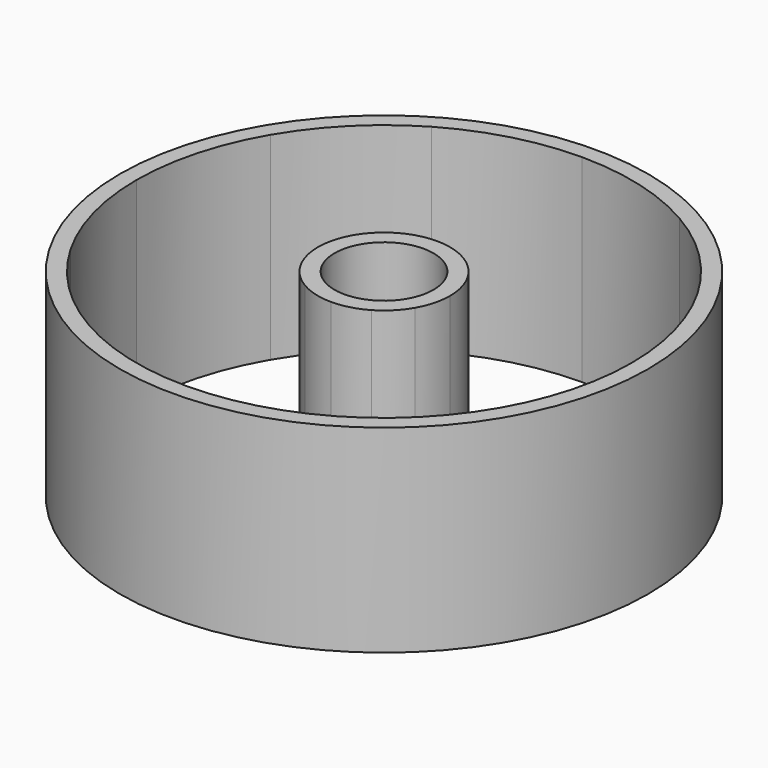
from build123d import *

# Parameters (mm, degrees)
F0_R     = 3
F1_DEPTH = 12
F0_R_2   = 16


with BuildPart() as f1:
    # F0 (on Top) → F1 (new body)
    with BuildSketch(Plane.XY):
        with BuildLine():
            ThreePointArc((-2, -3.4641016151), (-1.0352761804, -3.8637033052), (0, -4))
            ThreePointArc((0, -4), (1.0352761804, -3.8637033052), (2, -3.4641016151))
            ThreePointArc((2, -3.4641016151), (2.8284271247, -2.8284271247), (3.4641016151, -2))
            ThreePointArc((3.4641016151, -2), (3.8637033052, -1.0352761804), (4, 0))
            ThreePointArc((4, 0), (3.8637033052, 1.0352761804), (3.4641016151, 2))
            ThreePointArc((3.4641016151, 2), (2.8284271247, 2.8284271247), (2, 3.4641016151))
            ThreePointArc((2, 3.4641016151), (1.0352761804, 3.8637033052), (0, 4))
            ThreePointArc((0, 4), (-1.0352761804, 3.8637033052), (-2, 3.4641016151))
            ThreePointArc((-2, 3.4641016151), (-2.8284271247, 2.8284271247), (-3.4641016151, 2))
            ThreePointArc((-3.4641016151, 2), (-3.8637033052, 1.0352761804), (-4, 0))
            ThreePointArc((-4, 0), (-3.8637033052, -1.0352761804), (-3.4641016151, -2))
            ThreePointArc((-3.4641016151, -2), (-2.8284271247, -2.8284271247), (-2, -3.4641016151))
        make_face()
        Circle(F0_R, mode=Mode.SUBTRACT)
    extrude(amount=-F1_DEPTH)


with BuildPart() as f1b:
    # F0 (on Top) → F1, piece 2 (new body)
    with BuildSketch(Plane.XY):
        Circle(F0_R_2)
        with BuildLine():
            ThreePointArc((12.9903810568, 7.5), (14.4888873943, 3.8822856765), (15, 0))
            ThreePointArc((15, 0), (14.4888873943, -3.8822856765), (12.9903810568, -7.5))
            ThreePointArc((12.9903810568, -7.5), (10.6066017178, -10.6066017178), (7.5, -12.9903810568))
            ThreePointArc((7.5, -12.9903810568), (3.8822856765, -14.4888873943), (0, -15))
            ThreePointArc((0, -15), (-3.8822856765, -14.4888873943), (-7.5, -12.9903810568))
            ThreePointArc((-7.5, -12.9903810568), (-10.6066017178, -10.6066017178), (-12.9903810568, -7.5))
            ThreePointArc((-12.9903810568, -7.5), (-14.4888873943, -3.8822856765), (-15, 0))
            ThreePointArc((-15, 0), (-14.4778002803, 3.9234295001), (-12.9475601277, 7.5736838289))
            ThreePointArc((-12.9475601277, 7.5736838289), (-10.5764280836, 10.6366897572), (-7.5, 12.9903810568))
            ThreePointArc((-7.5, 12.9903810568), (-3.8822856765, 14.4888873943), (0, 15))
            ThreePointArc((0, 15), (3.8822856765, 14.4888873943), (7.5, 12.9903810568))
            ThreePointArc((7.5, 12.9903810568), (10.6066017178, 10.6066017178), (12.9903810568, 7.5))
        make_face(mode=Mode.SUBTRACT)
    extrude(amount=-F1_DEPTH)


solid = Compound([f1.part, f1b.part])
